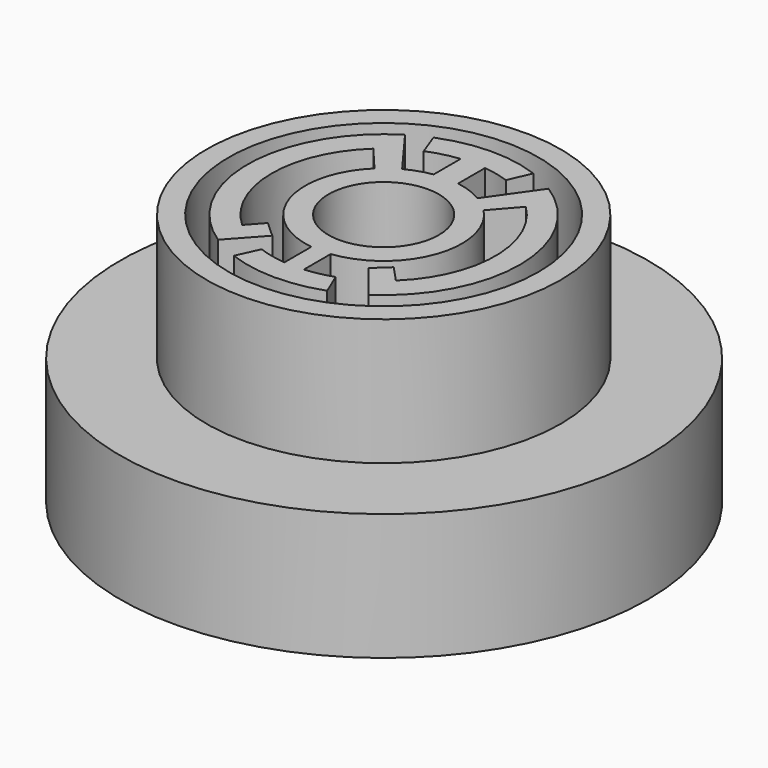
from build123d import *

# Parameters (mm, degrees)
F1_R     = 52.9315512319
F2_DEPTH = 25.4
F0_R     = 35.506963498
F0_R_2   = 31.0898313576
F0_R_3   = 11.0647908741
F3_DEPTH = 25.4


with BuildPart() as f2:
    # F1 (on Top) → F2 (new body)
    with BuildSketch(Plane.XY):
        with Locations((37.7799719572, 38.2931493223)):
            Circle(F1_R)
    extrude(amount=-F2_DEPTH)

    # F0 (on Top) → F3 (join)
    with BuildSketch(Plane.XY):
        with Locations((37.8249250984, 38.1173377679)):
            Circle(F0_R)
        with Locations((37.8249250984, 38.1173377679)):
            Circle(F0_R_2, mode=Mode.SUBTRACT)
        with BuildLine():
            Line((39.6984675691, 15.7673542773), (39.6984675691, 22.5067331888))
            ThreePointArc((39.6984675691, 22.5067331888), (52.6409755568, 32.8556093898), (49.1248120408, 49.0495695529))
            Line((49.1248120408, 49.0495695529), (53.550650699, 54.1090067787))
            ThreePointArc((53.550650699, 54.1090067787), (60.2525032987, 37.9285005747), (53.2791448176, 21.8631378094))
            Line((53.2791448176, 21.8631378094), (50.191392118, 25.1873300248))
            Line((50.191392118, 25.1873300248), (47.2831900335, 22.4859793641))
            Line((47.2831900335, 22.4859793641), (52.9763745223, 15.4227610277))
            ThreePointArc((52.9763745223, 15.4227610277), (65.1109642741, 38.4042160738), (52.4958682608, 61.1254593728))
            Line((52.4958682608, 61.1254593728), (45.8262898028, 51.651712507))
            ThreePointArc((45.8262898028, 51.651712507), (43.1781915167, 52.9005605345), (40.3444612137, 53.6367795902))
            Line((40.3444612137, 53.6367795902), (40.3444612137, 60.4037430676))
            ThreePointArc((40.3444612137, 60.4037430676), (42.9350031847, 59.9558135703), (45.4553338012, 59.2078281948))
            Line((45.4553338012, 59.2078281948), (47.4071712256, 63.6671086518))
            ThreePointArc((47.4071712256, 63.6671086518), (37.4680887103, 65.4025517281), (27.5777899968, 63.4077797425))
            Line((27.5777899968, 63.4077797425), (29.278934359, 58.8537300699))
            ThreePointArc((29.278934359, 58.8537300699), (32.2977523612, 59.8539953986), (35.4276978636, 60.4172307049))
            Line((35.4276978636, 60.4172307049), (35.4276978636, 53.6561420429))
            ThreePointArc((35.4276978636, 53.6561420429), (32.8588323546, 53.0350808805), (30.4302861837, 51.992511714))
            Line((30.4302861837, 51.992511714), (23.5229166343, 61.3565887661))
            ThreePointArc((23.5229166343, 61.3565887661), (10.5398831677, 38.487094317), (22.8984252987, 15.2741804381))
            Line((22.8984252987, 15.2741804381), (28.6635132157, 21.6562780329))
            Line((28.6635132157, 21.6562780329), (25.4403483123, 24.5678331703))
            Line((25.4403483123, 24.5678331703), (22.7109340757, 21.5463028337))
            ThreePointArc((22.7109340757, 21.5463028337), (15.3967115962, 38.0327060784), (22.5863063982, 54.5738387183))
            Line((22.5863063982, 54.5738387183), (26.9251461211, 49.4485316573))
            ThreePointArc((26.9251461211, 49.4485316573), (22.8935948893, 33.1922474233), (35.8058956554, 22.524882643))
            Line((35.8058956554, 22.524882643), (35.8058956554, 15.7800271973))
            ThreePointArc((35.8058956554, 15.7800271973), (32.9834142581, 16.2177556668), (30.2394509025, 17.0106444067))
            Line((30.2394509025, 17.0106444067), (28.214135887, 12.5782899431))
            ThreePointArc((28.214135887, 12.5782899431), (37.6196577159, 10.8305626128), (47.0504085033, 12.4365922762))
            Line((47.0504085033, 12.4365922762), (45.1568101775, 16.921220562))
            ThreePointArc((45.1568101775, 16.921220562), (42.4636561689, 16.1739082849), (39.6984675691, 15.7673542773))
        make_face()
        with Locations((37.8249250984, 38.1173377679)):
            Circle(F0_R_3, mode=Mode.SUBTRACT)
    extrude(amount=F3_DEPTH)


solid = f2.part
